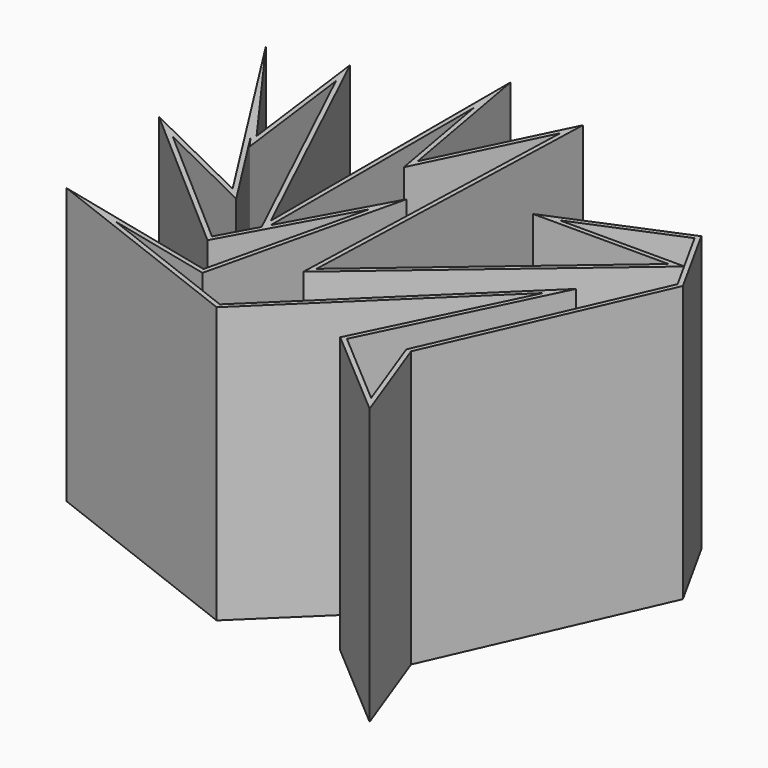
from build123d import *

# Parameters (mm, degrees)
F1_DEPTH = 76.2
F3_DEPTH = 54.102


with BuildPart() as f1:
    # F0 (on Top) → F1 (new body)
    with BuildSketch(Plane.XY):
        Polygon((-48.208792, 53.739436), (-43.231208, 15.209274), (-67.934759, 49.314924), (-31.875403, -7.264898), (-65.353796, 9.125564), (-21.108629, -29.404595), (-2.911252, 3.61714), (-13.365726, -40.465888), (-60.007501, -29.404595), (0, -52.633308), (50.870309, -3.450001), (29.588953, -46.918306), (55.398632, -69.040887), (45.627821, -42.49379), (72.359271, 17.974596), (60.929276, 38.622338), (26.086211, 24.058307), (63.510239, 24.058307), (5.622822, -25.164437), (8.572499, 63.141532), (-8.756855, 27.745403), (-16.131049, 69.040887), (-16.131049, -13.734437), align=None)
    extrude(amount=F1_DEPTH)

    # F2 (on face) → F3 (cut)
    with BuildSketch(Plane.XY.offset(76.2)):
        Polygon((-14.861049, 54.704386), (-14.861049, -15.436109), (0.475501, 12.394247), (-12.423058, -41.994671), (-42.220324, -34.928124), (-0.2989, -51.155774), (55.197442, 2.500153), (31.161853, -46.593818), (52.522279, -64.902753), (44.258507, -42.450249), (70.942717, 17.911278), (66.877654, 25.254621), (4.257654, -27.992326), (7.105206, 57.256262), (-9.324238, 23.698248), align=None)
        Polygon((60.369236, 37.011767), (32.417664, 25.328307), (66.836864, 25.328307), align=None)
        Polygon((-41.332285, 10.422641), (-43.910667, 13.982347), (-28.376483, -10.391947), (-57.22765, 3.733103), (-21.461381, -27.413352), (-15.863477, -17.255159), (-45.925721, 45.979215), align=None)
    extrude(amount=-F3_DEPTH, mode=Mode.SUBTRACT)


solid = f1.part
